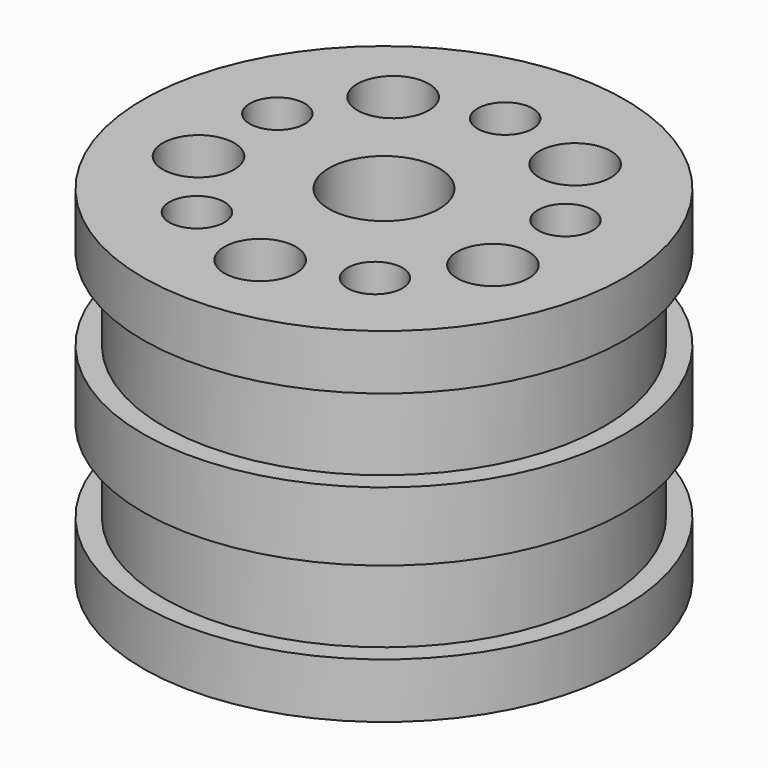
from build123d import *

# Parameters (mm, degrees)
F0_R     = 17.495
F0_R_2   = 15.95
F0_R_3   = 2
F0_R_4   = 2.6
F0_R_5   = 4
F1_DEPTH = 12.5
F3_START = -4
F2_R     = 17.495
F2_R_2   = 16
F3_DEPTH = 6
F5_START = -4
F4_R     = 17.495
F4_R_2   = 16
F5_DEPTH = 6


with BuildPart() as f1:
    # F0 (on Top) → F1 (new body, symmetric)
    with BuildSketch(Plane.XY):
        Circle(F0_R)
        Circle(F0_R_2, mode=Mode.SUBTRACT)
        Circle(F0_R_2)
        with Locations((-6.4656377752, -8.8991869381)):
            Circle(F0_R_3, mode=Mode.SUBTRACT)
        with Locations((-10.6898752432, -3.4733510168)):
            Circle(F0_R_4, mode=Mode.SUBTRACT)
        with Locations((0, -11.24)):
            Circle(F0_R_4, mode=Mode.SUBTRACT)
        with Locations((6.4656377752, -8.8991869381)):
            Circle(F0_R_3, mode=Mode.SUBTRACT)
        with Locations((10.6898752432, -3.4733510168)):
            Circle(F0_R_4, mode=Mode.SUBTRACT)
        with Locations((-10.4616216792, 3.3991869381)):
            Circle(F0_R_3, mode=Mode.SUBTRACT)
        with Locations((-6.6067062358, 9.0933510168)):
            Circle(F0_R_4, mode=Mode.SUBTRACT)
        Circle(F0_R_5, mode=Mode.SUBTRACT)
        with Locations((10.4616216792, 3.3991869381)):
            Circle(F0_R_3, mode=Mode.SUBTRACT)
        with Locations((0, 11)):
            Circle(F0_R_3, mode=Mode.SUBTRACT)
        with Locations((6.6067062358, 9.0933510168)):
            Circle(F0_R_4, mode=Mode.SUBTRACT)
    extrude(amount=F1_DEPTH, both=True)

    # F2 (on face) → F3 (cut)
    with BuildSketch(Plane.XY.offset(12.5).offset(F3_START)):
        Circle(F2_R)
        Circle(F2_R_2, mode=Mode.SUBTRACT)
    extrude(amount=-F3_DEPTH, mode=Mode.SUBTRACT)

    # F4 (on face) → F5 (cut)
    with BuildSketch(Plane(origin=(0, 0, -12.5), x_dir=(1, 0, 0), z_dir=(0, 0, -1)).offset(F5_START)):
        Circle(F4_R)
        Circle(F4_R_2, mode=Mode.SUBTRACT)
    extrude(amount=-F5_DEPTH, mode=Mode.SUBTRACT)


solid = f1.part
